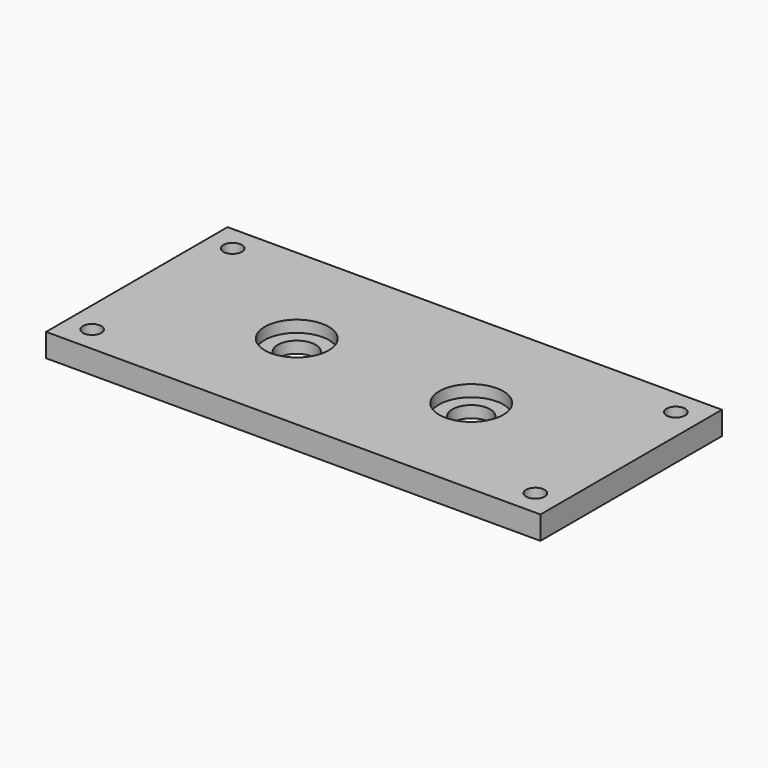
from build123d import *

# Parameters (mm, degrees)
SKETCH003_W     = 85
SKETCH003_H     = 39
PAD001_DEPTH    = 4
SKETCH007_R     = 1.6
SKETCH007_R_2   = 3.25
POCKET003_DEPTH = 5
SKETCH008_R     = 5.5
POCKET004_DEPTH = 2


with BuildPart() as part:
    # Sketch003 → Pad001 (new body)
    with BuildSketch(Plane.XY):
        Rectangle(SKETCH003_W, SKETCH003_H)
    extrude(amount=-PAD001_DEPTH)

    # Sketch007 → Pocket003 (cut)
    with BuildSketch(Plane.XY):
        with Locations((-38.1, 15.1)):
            Circle(SKETCH007_R)
        with Locations((-38.1, -15.1)):
            Circle(SKETCH007_R)
        with Locations((38.1, -15.1)):
            Circle(SKETCH007_R)
        with Locations((38.1, 15.1)):
            Circle(SKETCH007_R)
        with Locations((-15, 0)):
            Circle(SKETCH007_R_2)
        with Locations((15, 0)):
            Circle(SKETCH007_R_2)
    extrude(amount=-POCKET003_DEPTH, mode=Mode.SUBTRACT)

    # Sketch008 → Pocket004 (cut)
    with BuildSketch(Plane.XY):
        with Locations((-15, 0)):
            Circle(SKETCH008_R)
        with Locations((15, 0)):
            Circle(SKETCH008_R)
    extrude(amount=-POCKET004_DEPTH, mode=Mode.SUBTRACT)


solid = part.part
